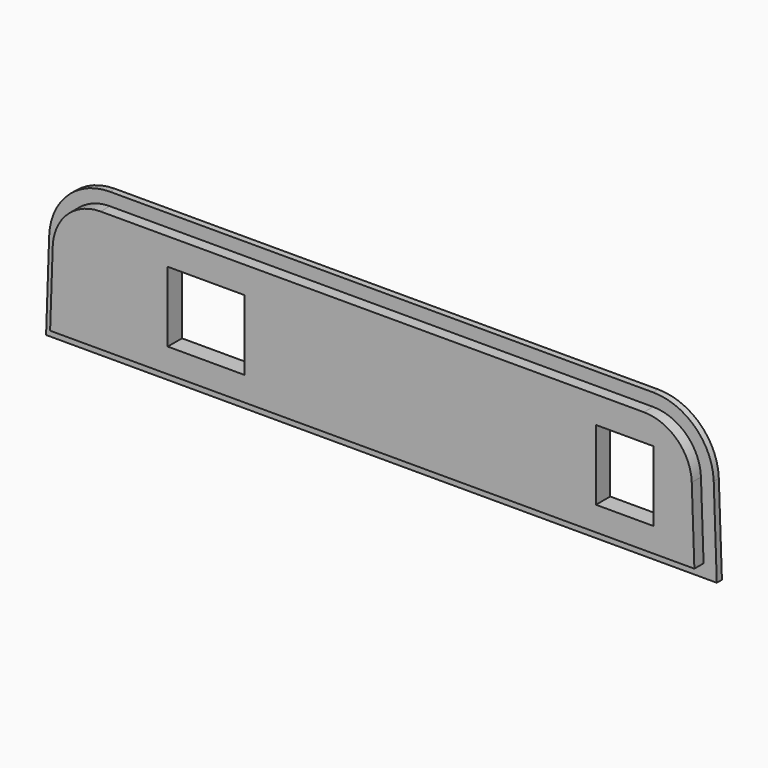
from build123d import *

# Parameters (mm, degrees)
F1_DEPTH = 1
F3_DEPTH = 1.8
F4_W     = 9
F4_H     = 11
F4_W_2   = 12
F5_DEPTH = 2.801


with BuildPart() as f1:
    # F0 (on Front) → F1 (new body)
    with BuildSketch(Plane.XZ):
        with BuildLine():
            Line((-48.502349, 13.831545), (-48.985357, 0))
            Line((-48.985357, 0), (56.014643, 0))
            Line((56.014643, 0), (55.531635, 13.831545))
            ThreePointArc((55.531635, 13.831545), (52.636676, 20.333728), (46.037422, 23))
            Line((46.037422, 23), (-39.008136, 23))
            ThreePointArc((-39.008136, 23), (-45.607391, 20.333728), (-48.502349, 13.831545))
        make_face()
    extrude(amount=F1_DEPTH)

    # F2 (on face) → F3 (join)
    with BuildSketch(Plane.XZ.offset(1)):
        with BuildLine():
            Line((46.037422, 21), (-39.008136, 21))
            ThreePointArc((-39.008136, 21), (-44.218074, 18.895049), (-46.503567, 13.761746))
            Line((-46.503567, 13.761746), (-46.914297, 2))
            Line((-46.914297, 2), (53.943582, 2))
            Line((53.943582, 2), (53.532853, 13.761746))
            ThreePointArc((53.532853, 13.761746), (51.24736, 18.895049), (46.037422, 21))
        make_face()
    extrude(amount=F3_DEPTH)

    # F4 (on face) → F5 (cut, through all)
    with BuildSketch(Plane(origin=(0, 0, 0), x_dir=(-1, 0, 0), z_dir=(0, 1, 0))):
        with Locations((-43.031635, 11.3)):
            Rectangle(F4_W, F4_H)
        with Locations((22.502349, 11.3)):
            Rectangle(F4_W_2, F4_H)
    extrude(amount=-F5_DEPTH, mode=Mode.SUBTRACT)


solid = f1.part
